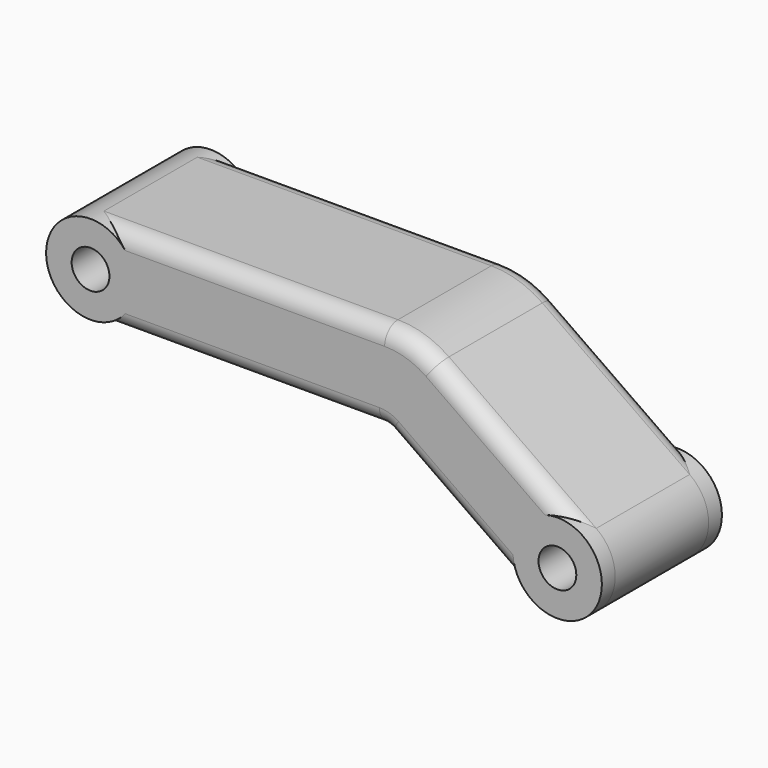
from build123d import *

# Parameters (mm, degrees)
SKETCH007_R              = 1.7
PAD019_DEPTH             = 13.5
FILLET006_R              = 1.5
SKETCH035_R              = 4
SKETCH035_R_2            = 1.7
PAD020_DEPTH             = 13.5
CLONE164_PLACEMENT_ANGLE = 180


with BuildPart() as part:
    # Sketch007 → Pad019 (new body)
    with BuildSketch(Plane(origin=(0, 19.25, 0), x_dir=(-1, 0, 0), z_dir=(0, 1, 0))):
        with BuildLine():
            ThreePointArc((12, 26), (8, 22), (12, 18))
            Line((12, 18), (37.984377, 18))
            ThreePointArc((38.844741, 17.728728), (38.435435, 17.930575), (37.984377, 18))
            Line((38.844741, 17.728728), (51.705713, 8.723378))
            ThreePointArc((51.705713, 8.723378), (57.276616, 9.705705), (56.294304, 15.27661))
            Line((43.045936, 24.553216), (56.294304, 15.27661))
            ThreePointArc((43.045936, 24.553216), (40.862971, 25.629736), (38.457325, 26))
            Line((12, 26), (38.457325, 26))
        make_face()
        with Locations((12, 22)):
            Circle(SKETCH007_R, mode=Mode.SUBTRACT)
        with Locations((54, 12)):
            Circle(SKETCH007_R, mode=Mode.SUBTRACT)
    extrude(amount=PAD019_DEPTH)

    # Fillet006
    fillet006_edges = [part.edges().sort_by_distance(p)[0] for p in [
        (-49.67012, 32.75, 19.914913),
        (-49.67012, 19.25, 19.914913),
    ]]
    fillet(fillet006_edges, radius=FILLET006_R)

    # Sketch035 (on Face12 of Fillet006) → Pad020 (join)
    with BuildSketch(Plane(origin=(0, 32.75, 0), x_dir=(-1, 0, 0), z_dir=(0, 1, 0))):
        with Locations((54, 12)):
            Circle(SKETCH035_R)
        with Locations((54, 12)):
            Circle(SKETCH035_R_2, mode=Mode.SUBTRACT)
        with Locations((12, 22)):
            Circle(SKETCH035_R)
        with Locations((12, 22)):
            Circle(SKETCH035_R_2, mode=Mode.SUBTRACT)
    extrude(amount=-PAD020_DEPTH)


with BuildPart() as part_1:
    # Body002 placement: moved
    add(part.part.moved(Location((0, -5, 0))))


with BuildPart() as part_2:
    # Clone164 placement: moved
    add(part_1.part.moved(Location((47, -5, 8))).rotate(Axis((47, -5, 8), (0, 0, 1)), CLONE164_PLACEMENT_ANGLE))


solid = part_2.part
